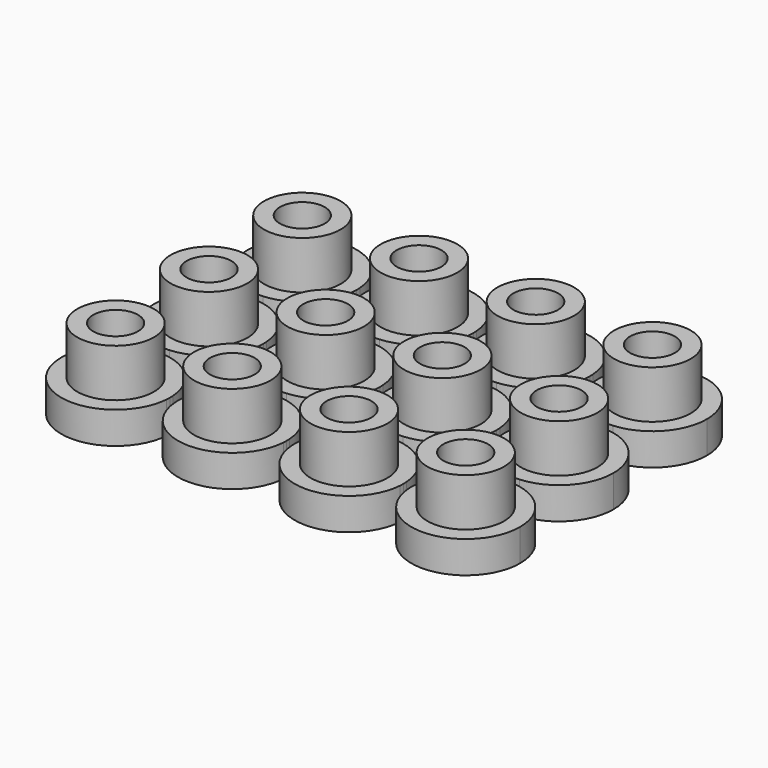
from build123d import *

# Parameters (mm, degrees)
F0_R     = 2.4
F0_R_2   = 1.4
F1_DEPTH = 5
F2_DEPTH = 2
F3_DEPTH = 0.5


with BuildPart() as f1:
    # F0 (on Top) → F1 (new body)
    with BuildSketch(Plane.XY):
        with Locations((-45.8542555571, 46.6235280037)):
            Circle(F0_R)
        with Locations((-45.8542555571, 46.6235280037)):
            Circle(F0_R_2, mode=Mode.SUBTRACT)
    extrude(amount=F1_DEPTH)

    # F0 (on Top) → F2 (join)
    with BuildSketch(Plane.XY):
        with BuildLine():
            ThreePointArc((-42.4636373957, 46.3711226083), (-42.4566018263, 46.497238156), (-42.4542555571, 46.6235280037))
            ThreePointArc((-42.4542555571, 46.6235280037), (-42.4566018263, 46.7498178514), (-42.4636373957, 46.8759333991))
            ThreePointArc((-42.4636373957, 46.8759333991), (-43.4509454186, 49.0285436749), (-45.6042555571, 50.0143243703))
            ThreePointArc((-45.6042555571, 50.0143243703), (-45.8542555571, 50.0235280037), (-46.1042555571, 50.0143243703))
            ThreePointArc((-46.1042555571, 50.0143243703), (-48.2592712282, 44.2202178653), (-42.4636373957, 46.3711226083))
        make_face()
        with Locations((-45.8542555571, 46.6235280037)):
            Circle(F0_R, mode=Mode.SUBTRACT)
        with Locations((-45.8542555571, 46.6235280037)):
            Circle(F0_R_2)
    extrude(amount=F2_DEPTH)



with BuildPart() as f1b:
    # F0 (on Top) → F1, piece 2 (new body)
    with BuildSketch(Plane.XY):
        with Locations((-38.5542555571, 46.6235280037)):
            Circle(F0_R)
        with Locations((-38.5542555571, 46.6235280037)):
            Circle(F0_R_2, mode=Mode.SUBTRACT)
    extrude(amount=F1_DEPTH)

    # F0 (on Top) → F2, piece 3 (join)
    with BuildSketch(Plane.XY):
        with BuildLine():
            ThreePointArc((-38.8042555571, 50.0143243703), (-40.9575656955, 49.0285436749), (-41.9448737185, 46.8759333991))
            ThreePointArc((-41.9448737185, 46.8759333991), (-41.9542555571, 46.6235280037), (-41.9448737185, 46.3711226083))
            ThreePointArc((-41.9448737185, 46.3711226083), (-38.5542555571, 43.2235280037), (-35.1636373957, 46.3711226083))
            ThreePointArc((-35.1636373957, 46.3711226083), (-35.1566018263, 46.497238156), (-35.1542555571, 46.6235280037))
            ThreePointArc((-35.1542555571, 46.6235280037), (-35.1566018263, 46.7498178514), (-35.1636373957, 46.8759333991))
            ThreePointArc((-35.1636373957, 46.8759333991), (-36.1509454186, 49.0285436749), (-38.3042555571, 50.0143243703))
            ThreePointArc((-38.3042555571, 50.0143243703), (-38.5542555571, 50.0235280037), (-38.8042555571, 50.0143243703))
        make_face()
        with Locations((-38.5542555571, 46.6235280037)):
            Circle(F0_R, mode=Mode.SUBTRACT)
        with Locations((-38.5542555571, 46.6235280037)):
            Circle(F0_R_2)
    extrude(amount=F2_DEPTH)


with BuildPart() as f1c:
    # F0 (on Top) → F1, piece 3 (new body)
    with BuildSketch(Plane.XY):
        with Locations((-31.2542555571, 46.6235280037)):
            Circle(F0_R)
        with Locations((-31.2542555571, 46.6235280037)):
            Circle(F0_R_2, mode=Mode.SUBTRACT)
    extrude(amount=F1_DEPTH)

    # F0 (on Top) → F2, piece 2 (join)
    with BuildSketch(Plane.XY):
        with BuildLine():
            ThreePointArc((-34.6448737185, 46.8759333991), (-34.6542555571, 46.6235280037), (-34.6448737185, 46.3711226083))
            ThreePointArc((-34.6448737185, 46.3711226083), (-31.2542555571, 43.2235280037), (-27.8636373957, 46.3711226083))
            ThreePointArc((-27.8636373957, 46.3711226083), (-27.8566018263, 46.497238156), (-27.8542555571, 46.6235280037))
            ThreePointArc((-27.8542555571, 46.6235280037), (-27.8566018263, 46.7498178514), (-27.8636373957, 46.8759333991))
            ThreePointArc((-27.8636373957, 46.8759333991), (-28.8509454186, 49.0285436749), (-31.0042555571, 50.0143243703))
            ThreePointArc((-31.0042555571, 50.0143243703), (-31.2542555571, 50.0235280037), (-31.5042555571, 50.0143243703))
            ThreePointArc((-31.5042555571, 50.0143243703), (-33.6575656955, 49.0285436749), (-34.6448737185, 46.8759333991))
        make_face()
        with Locations((-31.2542555571, 46.6235280037)):
            Circle(F0_R, mode=Mode.SUBTRACT)
        with Locations((-31.2542555571, 46.6235280037)):
            Circle(F0_R_2)
    extrude(amount=F2_DEPTH)


with BuildPart() as f1d:
    # F0 (on Top) → F1, piece 4 (new body)
    with BuildSketch(Plane.XY):
        with Locations((-23.9542555571, 46.6235280037)):
            Circle(F0_R)
        with Locations((-23.9542555571, 46.6235280037)):
            Circle(F0_R_2, mode=Mode.SUBTRACT)
    extrude(amount=F1_DEPTH)

    # F0 (on Top) → F2, piece 5 (join)
    with BuildSketch(Plane.XY):
        with BuildLine():
            ThreePointArc((-27.3448737185, 46.8759333991), (-27.3542555571, 46.6235280037), (-27.3448737185, 46.3711226083))
            ThreePointArc((-27.3448737185, 46.3711226083), (-23.8279657094, 43.2258742729), (-20.5542555571, 46.6235280037))
            ThreePointArc((-20.5542555571, 46.6235280037), (-21.4632718156, 48.9376152968), (-23.7042555571, 50.0143243703))
            ThreePointArc((-23.7042555571, 50.0143243703), (-23.9542555571, 50.0235280037), (-24.2042555571, 50.0143243703))
            ThreePointArc((-24.2042555571, 50.0143243703), (-26.3575656955, 49.0285436749), (-27.3448737185, 46.8759333991))
        make_face()
        with Locations((-23.9542555571, 46.6235280037)):
            Circle(F0_R, mode=Mode.SUBTRACT)
        with Locations((-23.9542555571, 46.6235280037)):
            Circle(F0_R_2)
    extrude(amount=F2_DEPTH)


with BuildPart() as f1e:
    # F0 (on Top) → F1, piece 5 (new body)
    with BuildSketch(Plane.XY):
        with Locations((-23.9542555571, 53.9235280037)):
            Circle(F0_R)
        with Locations((-23.9542555571, 53.9235280037)):
            Circle(F0_R_2, mode=Mode.SUBTRACT)
    extrude(amount=F1_DEPTH)

    # F0 (on Top) → F2, piece 4 (join)
    with BuildSketch(Plane.XY):
        with BuildLine():
            ThreePointArc((-27.3448737185, 53.6711226083), (-26.3575656955, 51.5185123325), (-24.2042555571, 50.5327316371))
            ThreePointArc((-24.2042555571, 50.5327316371), (-23.9542555571, 50.5235280037), (-23.7042555571, 50.5327316371))
            ThreePointArc((-23.7042555571, 50.5327316371), (-21.4632718156, 51.6094407106), (-20.5542555571, 53.9235280037))
            ThreePointArc((-20.5542555571, 53.9235280037), (-21.4632718156, 56.2376152968), (-23.7042555571, 57.3143243703))
            ThreePointArc((-23.7042555571, 57.3143243703), (-23.9542555571, 57.3235280037), (-24.2042555571, 57.3143243703))
            ThreePointArc((-24.2042555571, 57.3143243703), (-26.3575656955, 56.3285436749), (-27.3448737185, 54.1759333991))
            ThreePointArc((-27.3448737185, 54.1759333991), (-27.3542555571, 53.9235280037), (-27.3448737185, 53.6711226083))
        make_face()
        with Locations((-23.9542555571, 53.9235280037)):
            Circle(F0_R, mode=Mode.SUBTRACT)
        with Locations((-23.9542555571, 53.9235280037)):
            Circle(F0_R_2)
    extrude(amount=F2_DEPTH)


with BuildPart() as f1f:
    # F0 (on Top) → F1, piece 6 (new body)
    with BuildSketch(Plane.XY):
        with Locations((-31.2542555571, 53.9235280037)):
            Circle(F0_R)
        with Locations((-31.2542555571, 53.9235280037)):
            Circle(F0_R_2, mode=Mode.SUBTRACT)
    extrude(amount=F1_DEPTH)

    # F0 (on Top) → F2, piece 6 (join)
    with BuildSketch(Plane.XY):
        with BuildLine():
            ThreePointArc((-34.6448737185, 54.1759333991), (-34.6542555571, 53.9235280037), (-34.6448737185, 53.6711226083))
            ThreePointArc((-34.6448737185, 53.6711226083), (-33.6575656955, 51.5185123325), (-31.5042555571, 50.5327316371))
            ThreePointArc((-31.5042555571, 50.5327316371), (-31.2542555571, 50.5235280037), (-31.0042555571, 50.5327316371))
            ThreePointArc((-31.0042555571, 50.5327316371), (-28.8509454186, 51.5185123325), (-27.8636373957, 53.6711226083))
            ThreePointArc((-27.8636373957, 53.6711226083), (-27.8566018263, 53.797238156), (-27.8542555571, 53.9235280037))
            ThreePointArc((-27.8542555571, 53.9235280037), (-27.8566018263, 54.0498178514), (-27.8636373957, 54.1759333991))
            ThreePointArc((-27.8636373957, 54.1759333991), (-28.8509454186, 56.3285436749), (-31.0042555571, 57.3143243703))
            ThreePointArc((-31.0042555571, 57.3143243703), (-31.2542555571, 57.3235280037), (-31.5042555571, 57.3143243703))
            ThreePointArc((-31.5042555571, 57.3143243703), (-33.6575656955, 56.3285436749), (-34.6448737185, 54.1759333991))
        make_face()
        with Locations((-31.2542555571, 53.9235280037)):
            Circle(F0_R, mode=Mode.SUBTRACT)
        with Locations((-31.2542555571, 53.9235280037)):
            Circle(F0_R_2)
    extrude(amount=F2_DEPTH)


with BuildPart() as f1g:
    # F0 (on Top) → F1, piece 7 (new body)
    with BuildSketch(Plane.XY):
        with Locations((-38.5542555571, 53.9235280037)):
            Circle(F0_R)
        with Locations((-38.5542555571, 53.9235280037)):
            Circle(F0_R_2, mode=Mode.SUBTRACT)
    extrude(amount=F1_DEPTH)

    # F0 (on Top) → F2, piece 7 (join)
    with BuildSketch(Plane.XY):
        with BuildLine():
            ThreePointArc((-41.9448737185, 53.6711226083), (-40.9575656955, 51.5185123325), (-38.8042555571, 50.5327316371))
            ThreePointArc((-38.8042555571, 50.5327316371), (-38.5542555571, 50.5235280037), (-38.3042555571, 50.5327316371))
            ThreePointArc((-38.3042555571, 50.5327316371), (-36.1509454186, 51.5185123325), (-35.1636373957, 53.6711226083))
            ThreePointArc((-35.1636373957, 53.6711226083), (-35.1566018263, 53.797238156), (-35.1542555571, 53.9235280037))
            ThreePointArc((-35.1542555571, 53.9235280037), (-35.1566018263, 54.0498178514), (-35.1636373957, 54.1759333991))
            ThreePointArc((-35.1636373957, 54.1759333991), (-36.1509454186, 56.3285436749), (-38.3042555571, 57.3143243703))
            ThreePointArc((-38.3042555571, 57.3143243703), (-38.5542555571, 57.3235280037), (-38.8042555571, 57.3143243703))
            ThreePointArc((-38.8042555571, 57.3143243703), (-40.9575656955, 56.3285436749), (-41.9448737185, 54.1759333991))
            ThreePointArc((-41.9448737185, 54.1759333991), (-41.9542555571, 53.9235280037), (-41.9448737185, 53.6711226083))
        make_face()
        with Locations((-38.5542555571, 53.9235280037)):
            Circle(F0_R, mode=Mode.SUBTRACT)
        with Locations((-38.5542555571, 53.9235280037)):
            Circle(F0_R_2)
    extrude(amount=F2_DEPTH)


with BuildPart() as f1h:
    # F0 (on Top) → F1, piece 8 (new body)
    with BuildSketch(Plane.XY):
        with Locations((-45.8542555571, 53.9235280037)):
            Circle(F0_R)
        with Locations((-45.8542555571, 53.9235280037)):
            Circle(F0_R_2, mode=Mode.SUBTRACT)
    extrude(amount=F1_DEPTH)

    # F0 (on Top) → F2, piece 8 (join)
    with BuildSketch(Plane.XY):
        with BuildLine():
            ThreePointArc((-46.1042555571, 50.5327316371), (-45.8542555571, 50.5235280037), (-45.6042555571, 50.5327316371))
            ThreePointArc((-45.6042555571, 50.5327316371), (-43.4509454186, 51.5185123325), (-42.4636373957, 53.6711226083))
            ThreePointArc((-42.4636373957, 53.6711226083), (-42.4566018263, 53.797238156), (-42.4542555571, 53.9235280037))
            ThreePointArc((-42.4542555571, 53.9235280037), (-42.4566018263, 54.0498178514), (-42.4636373957, 54.1759333991))
            ThreePointArc((-42.4636373957, 54.1759333991), (-43.4509454186, 56.3285436749), (-45.6042555571, 57.3143243703))
            ThreePointArc((-45.6042555571, 57.3143243703), (-45.8542555571, 57.3235280037), (-46.1042555571, 57.3143243703))
            ThreePointArc((-46.1042555571, 57.3143243703), (-49.2542555571, 53.9235280037), (-46.1042555571, 50.5327316371))
        make_face()
        with Locations((-45.8542555571, 53.9235280037)):
            Circle(F0_R, mode=Mode.SUBTRACT)
        with Locations((-45.8542555571, 53.9235280037)):
            Circle(F0_R_2)
    extrude(amount=F2_DEPTH)


with BuildPart() as f1i:
    # F0 (on Top) → F1, piece 9 (new body)
    with BuildSketch(Plane.XY):
        with Locations((-45.8542555571, 61.2235280037)):
            Circle(F0_R)
        with Locations((-45.8542555571, 61.2235280037)):
            Circle(F0_R_2, mode=Mode.SUBTRACT)
    extrude(amount=F1_DEPTH)

    # F0 (on Top) → F2, piece 9 (join)
    with BuildSketch(Plane.XY):
        with BuildLine():
            ThreePointArc((-42.4636373957, 61.4759333991), (-48.2592712282, 63.6268381421), (-46.1042555571, 57.8327316371))
            ThreePointArc((-46.1042555571, 57.8327316371), (-45.8542555571, 57.8235280037), (-45.6042555571, 57.8327316371))
            ThreePointArc((-45.6042555571, 57.8327316371), (-43.4509454186, 58.8185123325), (-42.4636373957, 60.9711226083))
            ThreePointArc((-42.4636373957, 60.9711226083), (-42.4566018263, 61.097238156), (-42.4542555571, 61.2235280037))
            ThreePointArc((-42.4542555571, 61.2235280037), (-42.4566018263, 61.3498178514), (-42.4636373957, 61.4759333991))
        make_face()
        with Locations((-45.8542555571, 61.2235280037)):
            Circle(F0_R, mode=Mode.SUBTRACT)
        with Locations((-45.8542555571, 61.2235280037)):
            Circle(F0_R_2)
    extrude(amount=F2_DEPTH)


with BuildPart() as f1j:
    # F0 (on Top) → F1, piece 10 (new body)
    with BuildSketch(Plane.XY):
        with Locations((-38.5542555571, 61.2235280037)):
            Circle(F0_R)
        with Locations((-38.5542555571, 61.2235280037)):
            Circle(F0_R_2, mode=Mode.SUBTRACT)
    extrude(amount=F1_DEPTH)

    # F0 (on Top) → F2, piece 10 (join)
    with BuildSketch(Plane.XY):
        with BuildLine():
            ThreePointArc((-35.1636373957, 61.4759333991), (-38.5542555571, 64.6235280037), (-41.9448737185, 61.4759333991))
            ThreePointArc((-41.9448737185, 61.4759333991), (-41.9542555571, 61.2235280037), (-41.9448737185, 60.9711226083))
            ThreePointArc((-41.9448737185, 60.9711226083), (-40.9575656955, 58.8185123325), (-38.8042555571, 57.8327316371))
            ThreePointArc((-38.8042555571, 57.8327316371), (-38.5542555571, 57.8235280037), (-38.3042555571, 57.8327316371))
            ThreePointArc((-38.3042555571, 57.8327316371), (-36.1509454186, 58.8185123325), (-35.1636373957, 60.9711226083))
            ThreePointArc((-35.1636373957, 60.9711226083), (-35.1566018263, 61.097238156), (-35.1542555571, 61.2235280037))
            ThreePointArc((-35.1542555571, 61.2235280037), (-35.1566018263, 61.3498178514), (-35.1636373957, 61.4759333991))
        make_face()
        with Locations((-38.5542555571, 61.2235280037)):
            Circle(F0_R, mode=Mode.SUBTRACT)
        with Locations((-38.5542555571, 61.2235280037)):
            Circle(F0_R_2)
    extrude(amount=F2_DEPTH)


with BuildPart() as f1k:
    # F0 (on Top) → F1, piece 11 (new body)
    with BuildSketch(Plane.XY):
        with Locations((-31.2542555571, 61.2235280037)):
            Circle(F0_R)
        with Locations((-31.2542555571, 61.2235280037)):
            Circle(F0_R_2, mode=Mode.SUBTRACT)
    extrude(amount=F1_DEPTH)

    # F0 (on Top) → F2, piece 11 (join)
    with BuildSketch(Plane.XY):
        with BuildLine():
            ThreePointArc((-27.8636373957, 61.4759333991), (-31.2542555571, 64.6235280037), (-34.6448737185, 61.4759333991))
            ThreePointArc((-34.6448737185, 61.4759333991), (-34.6542555571, 61.2235280037), (-34.6448737185, 60.9711226083))
            ThreePointArc((-34.6448737185, 60.9711226083), (-33.6575656955, 58.8185123325), (-31.5042555571, 57.8327316371))
            ThreePointArc((-31.5042555571, 57.8327316371), (-31.2542555571, 57.8235280037), (-31.0042555571, 57.8327316371))
            ThreePointArc((-31.0042555571, 57.8327316371), (-28.8509454186, 58.8185123325), (-27.8636373957, 60.9711226083))
            ThreePointArc((-27.8636373957, 60.9711226083), (-27.8566018263, 61.097238156), (-27.8542555571, 61.2235280037))
            ThreePointArc((-27.8542555571, 61.2235280037), (-27.8566018263, 61.3498178514), (-27.8636373957, 61.4759333991))
        make_face()
        with Locations((-31.2542555571, 61.2235280037)):
            Circle(F0_R, mode=Mode.SUBTRACT)
        with Locations((-31.2542555571, 61.2235280037)):
            Circle(F0_R_2)
    extrude(amount=F2_DEPTH)


with BuildPart() as f1l:
    # F0 (on Top) → F1, piece 12 (new body)
    with BuildSketch(Plane.XY):
        with Locations((-23.9542555571, 61.2235280037)):
            Circle(F0_R)
        with Locations((-23.9542555571, 61.2235280037)):
            Circle(F0_R_2, mode=Mode.SUBTRACT)
    extrude(amount=F1_DEPTH)

    # F0 (on Top) → F2, piece 12 (join)
    with BuildSketch(Plane.XY):
        with BuildLine():
            ThreePointArc((-20.5542555571, 61.2235280037), (-23.8279657094, 64.6211817345), (-27.3448737185, 61.4759333991))
            ThreePointArc((-27.3448737185, 61.4759333991), (-27.3542555571, 61.2235280037), (-27.3448737185, 60.9711226083))
            ThreePointArc((-27.3448737185, 60.9711226083), (-26.3575656955, 58.8185123325), (-24.2042555571, 57.8327316371))
            ThreePointArc((-24.2042555571, 57.8327316371), (-23.9542555571, 57.8235280037), (-23.7042555571, 57.8327316371))
            ThreePointArc((-23.7042555571, 57.8327316371), (-21.4632718156, 58.9094407106), (-20.5542555571, 61.2235280037))
        make_face()
        with Locations((-23.9542555571, 61.2235280037)):
            Circle(F0_R, mode=Mode.SUBTRACT)
        with Locations((-23.9542555571, 61.2235280037)):
            Circle(F0_R_2)
    extrude(amount=F2_DEPTH)


with BuildPart() as f1_1:
    add(f1.part)

    add(f1b.part)  # F3 merges F1b

    add(f1c.part)  # F3 merges F1c

    add(f1d.part)  # F3 merges F1d

    add(f1e.part)  # F3 merges F1e

    add(f1f.part)  # F3 merges F1f

    add(f1g.part)  # F3 merges F1g

    add(f1h.part)  # F3 merges F1h

    add(f1i.part)  # F3 merges F1i

    add(f1j.part)  # F3 merges F1j

    add(f1k.part)  # F3 merges F1k

    add(f1l.part)  # F3 merges F1l
    # F0 (on Top) → F3 (join)
    with BuildSketch(Plane.XY):
        with BuildLine():
            Line((-46.1042555571, 57.8327316371), (-46.1042555571, 57.3143243703))
            ThreePointArc((-46.1042555571, 57.3143243703), (-45.8542555571, 57.3235280037), (-45.6042555571, 57.3143243703))
            Line((-45.6042555571, 57.3143243703), (-45.6042555571, 57.8327316371))
            ThreePointArc((-45.6042555571, 57.8327316371), (-45.8542555571, 57.8235280037), (-46.1042555571, 57.8327316371))
        make_face()
        with BuildLine():
            Line((-38.8042555571, 57.8327316371), (-38.8042555571, 57.3143243703))
            ThreePointArc((-38.8042555571, 57.3143243703), (-38.5542555571, 57.3235280037), (-38.3042555571, 57.3143243703))
            Line((-38.3042555571, 57.3143243703), (-38.3042555571, 57.8327316371))
            ThreePointArc((-38.3042555571, 57.8327316371), (-38.5542555571, 57.8235280037), (-38.8042555571, 57.8327316371))
        make_face()
        with BuildLine():
            Line((-31.5042555571, 57.8327316371), (-31.5042555571, 57.3143243703))
            ThreePointArc((-31.5042555571, 57.3143243703), (-31.2542555571, 57.3235280037), (-31.0042555571, 57.3143243703))
            Line((-31.0042555571, 57.3143243703), (-31.0042555571, 57.8327316371))
            ThreePointArc((-31.0042555571, 57.8327316371), (-31.2542555571, 57.8235280037), (-31.5042555571, 57.8327316371))
        make_face()
        with BuildLine():
            ThreePointArc((-24.2042555571, 57.3143243703), (-23.9542555571, 57.3235280037), (-23.7042555571, 57.3143243703))
            Line((-23.7042555571, 57.3143243703), (-23.7042555571, 57.8327316371))
            ThreePointArc((-23.7042555571, 57.8327316371), (-23.9542555571, 57.8235280037), (-24.2042555571, 57.8327316371))
            Line((-24.2042555571, 57.8327316371), (-24.2042555571, 57.3143243703))
        make_face()
        with BuildLine():
            Line((-24.2042555571, 50.5327316371), (-24.2042555571, 50.0143243703))
            ThreePointArc((-24.2042555571, 50.0143243703), (-23.9542555571, 50.0235280037), (-23.7042555571, 50.0143243703))
            Line((-23.7042555571, 50.0143243703), (-23.7042555571, 50.5327316371))
            ThreePointArc((-23.7042555571, 50.5327316371), (-23.9542555571, 50.5235280037), (-24.2042555571, 50.5327316371))
        make_face()
        with BuildLine():
            Line((-31.5042555571, 50.5327316371), (-31.5042555571, 50.0143243703))
            ThreePointArc((-31.5042555571, 50.0143243703), (-31.2542555571, 50.0235280037), (-31.0042555571, 50.0143243703))
            Line((-31.0042555571, 50.0143243703), (-31.0042555571, 50.5327316371))
            ThreePointArc((-31.0042555571, 50.5327316371), (-31.2542555571, 50.5235280037), (-31.5042555571, 50.5327316371))
        make_face()
        with BuildLine():
            Line((-38.8042555571, 50.5327316371), (-38.8042555571, 50.0143243703))
            ThreePointArc((-38.8042555571, 50.0143243703), (-38.5542555571, 50.0235280037), (-38.3042555571, 50.0143243703))
            Line((-38.3042555571, 50.0143243703), (-38.3042555571, 50.5327316371))
            ThreePointArc((-38.3042555571, 50.5327316371), (-38.5542555571, 50.5235280037), (-38.8042555571, 50.5327316371))
        make_face()
        with BuildLine():
            ThreePointArc((-46.1042555571, 50.0143243703), (-45.8542555571, 50.0235280037), (-45.6042555571, 50.0143243703))
            Line((-45.6042555571, 50.0143243703), (-45.6042555571, 50.5327316371))
            ThreePointArc((-45.6042555571, 50.5327316371), (-45.8542555571, 50.5235280037), (-46.1042555571, 50.5327316371))
            Line((-46.1042555571, 50.5327316371), (-46.1042555571, 50.0143243703))
        make_face()
        with BuildLine():
            ThreePointArc((-42.4636373957, 46.8759333991), (-42.4566018263, 46.7498178514), (-42.4542555571, 46.6235280037))
            ThreePointArc((-42.4542555571, 46.6235280037), (-42.4566018263, 46.497238156), (-42.4636373957, 46.3711226083))
            Line((-42.4636373957, 46.3711226083), (-41.9448737185, 46.3711226083))
            ThreePointArc((-41.9448737185, 46.3711226083), (-41.9542555571, 46.6235280037), (-41.9448737185, 46.8759333991))
            Line((-41.9448737185, 46.8759333991), (-42.4636373957, 46.8759333991))
        make_face()
        with BuildLine():
            ThreePointArc((-42.4542555571, 53.9235280037), (-42.4566018263, 53.797238156), (-42.4636373957, 53.6711226083))
            Line((-42.4636373957, 53.6711226083), (-41.9448737185, 53.6711226083))
            ThreePointArc((-41.9448737185, 53.6711226083), (-41.9542555571, 53.9235280037), (-41.9448737185, 54.1759333991))
            Line((-41.9448737185, 54.1759333991), (-42.4636373957, 54.1759333991))
            ThreePointArc((-42.4636373957, 54.1759333991), (-42.4566018263, 54.0498178514), (-42.4542555571, 53.9235280037))
        make_face()
        with BuildLine():
            ThreePointArc((-35.1542555571, 53.9235280037), (-35.1566018263, 53.797238156), (-35.1636373957, 53.6711226083))
            Line((-35.1636373957, 53.6711226083), (-34.6448737185, 53.6711226083))
            ThreePointArc((-34.6448737185, 53.6711226083), (-34.6542555571, 53.9235280037), (-34.6448737185, 54.1759333991))
            Line((-34.6448737185, 54.1759333991), (-35.1636373957, 54.1759333991))
            ThreePointArc((-35.1636373957, 54.1759333991), (-35.1566018263, 54.0498178514), (-35.1542555571, 53.9235280037))
        make_face()
        with BuildLine():
            ThreePointArc((-27.8542555571, 53.9235280037), (-27.8566018263, 53.797238156), (-27.8636373957, 53.6711226083))
            Line((-27.8636373957, 53.6711226083), (-27.3448737185, 53.6711226083))
            ThreePointArc((-27.3448737185, 53.6711226083), (-27.3542555571, 53.9235280037), (-27.3448737185, 54.1759333991))
            Line((-27.3448737185, 54.1759333991), (-27.8636373957, 54.1759333991))
            ThreePointArc((-27.8636373957, 54.1759333991), (-27.8566018263, 54.0498178514), (-27.8542555571, 53.9235280037))
        make_face()
        with BuildLine():
            Line((-27.3448737185, 61.4759333991), (-27.8636373957, 61.4759333991))
            ThreePointArc((-27.8636373957, 61.4759333991), (-27.8566018263, 61.3498178514), (-27.8542555571, 61.2235280037))
            ThreePointArc((-27.8542555571, 61.2235280037), (-27.8566018263, 61.097238156), (-27.8636373957, 60.9711226083))
            Line((-27.8636373957, 60.9711226083), (-27.3448737185, 60.9711226083))
            ThreePointArc((-27.3448737185, 60.9711226083), (-27.3542555571, 61.2235280037), (-27.3448737185, 61.4759333991))
        make_face()
        with BuildLine():
            Line((-34.6448737185, 61.4759333991), (-35.1636373957, 61.4759333991))
            ThreePointArc((-35.1636373957, 61.4759333991), (-35.1566018263, 61.3498178514), (-35.1542555571, 61.2235280037))
            ThreePointArc((-35.1542555571, 61.2235280037), (-35.1566018263, 61.097238156), (-35.1636373957, 60.9711226083))
            Line((-35.1636373957, 60.9711226083), (-34.6448737185, 60.9711226083))
            ThreePointArc((-34.6448737185, 60.9711226083), (-34.6542555571, 61.2235280037), (-34.6448737185, 61.4759333991))
        make_face()
        with BuildLine():
            Line((-41.9448737185, 61.4759333991), (-42.4636373957, 61.4759333991))
            ThreePointArc((-42.4636373957, 61.4759333991), (-42.4566018263, 61.3498178514), (-42.4542555571, 61.2235280037))
            ThreePointArc((-42.4542555571, 61.2235280037), (-42.4566018263, 61.097238156), (-42.4636373957, 60.9711226083))
            Line((-42.4636373957, 60.9711226083), (-41.9448737185, 60.9711226083))
            ThreePointArc((-41.9448737185, 60.9711226083), (-41.9542555571, 61.2235280037), (-41.9448737185, 61.4759333991))
        make_face()
        with BuildLine():
            ThreePointArc((-35.1542555571, 46.6235280037), (-35.1566018263, 46.497238156), (-35.1636373957, 46.3711226083))
            Line((-35.1636373957, 46.3711226083), (-34.6448737185, 46.3711226083))
            ThreePointArc((-34.6448737185, 46.3711226083), (-34.6542555571, 46.6235280037), (-34.6448737185, 46.8759333991))
            Line((-34.6448737185, 46.8759333991), (-35.1636373957, 46.8759333991))
            ThreePointArc((-35.1636373957, 46.8759333991), (-35.1566018263, 46.7498178514), (-35.1542555571, 46.6235280037))
        make_face()
        with BuildLine():
            ThreePointArc((-27.8542555571, 46.6235280037), (-27.8566018263, 46.497238156), (-27.8636373957, 46.3711226083))
            Line((-27.8636373957, 46.3711226083), (-27.3448737185, 46.3711226083))
            ThreePointArc((-27.3448737185, 46.3711226083), (-27.3542555571, 46.6235280037), (-27.3448737185, 46.8759333991))
            Line((-27.3448737185, 46.8759333991), (-27.8636373957, 46.8759333991))
            ThreePointArc((-27.8636373957, 46.8759333991), (-27.8566018263, 46.7498178514), (-27.8542555571, 46.6235280037))
        make_face()
    extrude(amount=F3_DEPTH)


solid = f1_1.part
